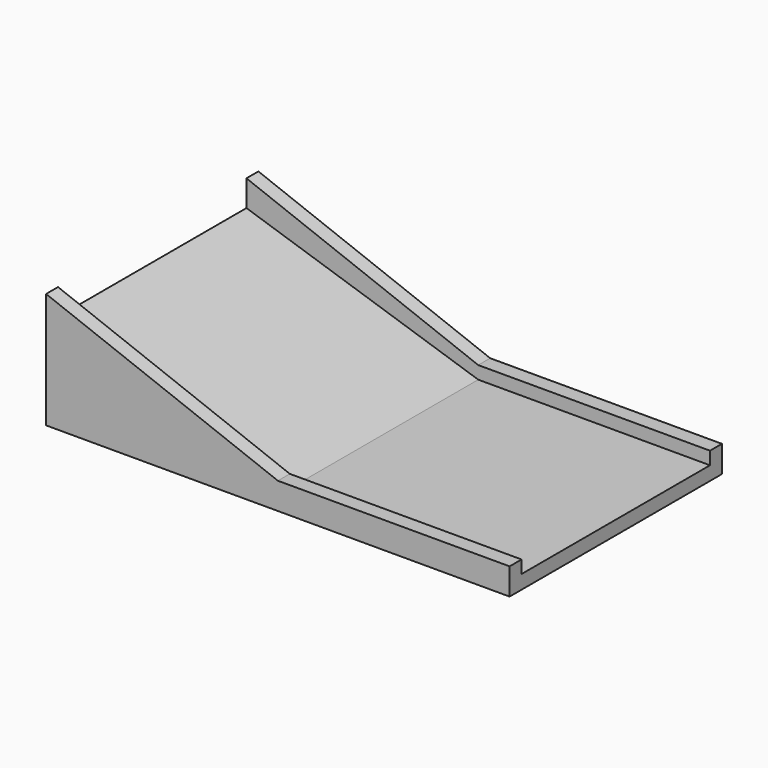
from build123d import *

# Parameters (mm, degrees)
F0_W     = 197.273388
F0_H     = 100.243152
F1_DEPTH = 38.1
F3_DEPTH = 100.244151
F5_DEPTH = 6.35
F7_DEPTH = 6.35


with BuildPart() as f1:
    # F0 (on Top) → F1 (new body)
    with BuildSketch(Plane.XY):
        Rectangle(F0_W, F0_H)
    extrude(amount=F1_DEPTH)

    # F2 (on face) → F3 (cut, through all)
    with BuildSketch(Plane.XZ.offset(50.121576)):
        Polygon((98.636694, 38.1), (-98.636694, 38.1), (0, 5.87702), (98.636694, 5.87702), align=None)
    extrude(amount=-F3_DEPTH, mode=Mode.SUBTRACT)

    # F4 (on face) → F5 (join)
    with BuildSketch(Plane.XZ.offset(50.121576)):
        Polygon((-98.636694, 49.251463), (-98.636694, 0), (98.636694, 0), (98.636694, 11.338987), (0, 11.338987), align=None)
    extrude(amount=F5_DEPTH)

    # F6 (on face) → F7 (join)
    with BuildSketch(Plane(origin=(0, 50.121576, 0), x_dir=(-1, 0, 0), z_dir=(0, 1, 0))):
        Polygon((-98.636694, 0), (98.636694, 0), (98.636694, 49.251463), (0, 11.338987), (-98.636694, 11.338987), align=None)
    extrude(amount=F7_DEPTH)


solid = f1.part
